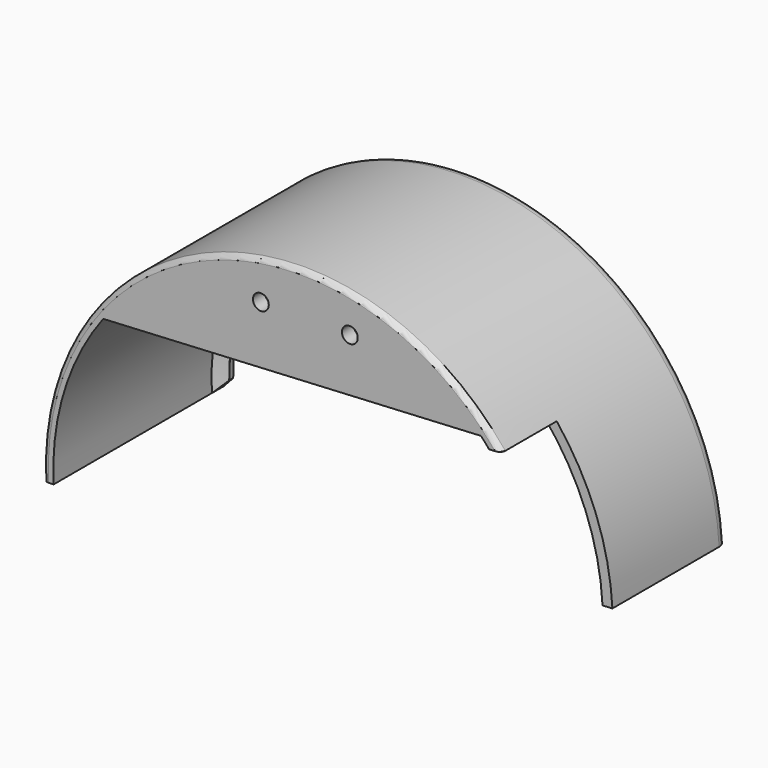
from build123d import *

# Parameters (mm, degrees)
BOX338_W                = 59
BOX338_H                = 20
BOX338_DEPTH            = 32
BOX338_PLACEMENT_ANGLE  = 3
CYLINDER483_R           = 1.6
CYLINDER483_DEPTH       = 9
CYLINDER481_R           = 1.6
CYLINDER481_DEPTH       = 9
BOX337_W                = 128
BOX337_H                = 3
BOX337_DEPTH            = 35
BOX337_PLACEMENT_ANGLE  = 3
CYLINDER489_W           = 52
CYLINDER489_H           = 3
CYLINDER489_ANGLE       = 180
CYLINDER489_ROLL_ANGLE  = 90
CYLINDER489_PITCH_ANGLE = -3
CYLINDER491_W           = 48
CYLINDER491_H           = 2
CYLINDER491_ANGLE       = 180
CYLINDER488_W           = 50
CYLINDER488_H           = 42
CYLINDER488_ANGLE       = 180
CYLINDER490_W           = 52
CYLINDER490_H           = 43
CYLINDER490_ANGLE       = 180
CUT342_PLACEMENT_ANGLE  = 3
FILLET124_R             = 2
FILLET125_R             = 1
CHAMFER049_SIZE         = 1.99
CHAMFER052_SIZE         = 1.99


with BuildPart() as cube409:
    # Box338 → Box338 (new body)
    with BuildSketch(Plane.XY):
        with Locations((29.5, 10)):
            Rectangle(BOX338_W, BOX338_H)
    extrude(amount=BOX338_DEPTH)


with BuildPart() as cube409_1:
    # Box338 placement: moved
    add(cube409.part.moved(Location((473, -33, -34))).rotate(Axis((473, -33, -34), (0, -1, 0)), BOX338_PLACEMENT_ANGLE))


with BuildPart() as cylinder584:
    # Cylinder483 → Cylinder483 (new body)
    with BuildSketch(Plane(origin=(441, -17, 10), x_dir=(1, 0, 0), z_dir=(0, -1, 0))):
        Circle(CYLINDER483_R)
    extrude(amount=CYLINDER483_DEPTH)


with BuildPart() as fusion433:
    # Cylinder481 → Cylinder481 (new body)
    with BuildSketch(Plane(origin=(459, -17, 10), x_dir=(1, 0, 0), z_dir=(0, -1, 0))):
        Circle(CYLINDER481_R)
    extrude(amount=CYLINDER481_DEPTH)

    # Fusion433: union Cylinder584
    add(cylinder584.part)


with BuildPart() as cube408:
    # Box337 → Box337 (new body)
    with BuildSketch(Plane.XY):
        with Locations((64, 1.5)):
            Rectangle(BOX337_W, BOX337_H)
    extrude(amount=BOX337_DEPTH)


with BuildPart() as cube408_1:
    # Box337 placement: moved
    add(cube408.part.moved(Location((382, -9, -40.8))).rotate(Axis((382, -9, -40.8), (0, -1, 0)), BOX337_PLACEMENT_ANGLE))


with BuildPart() as cut343:
    # Cylinder489 → Cylinder489 (revolve)
    with BuildSketch(Plane.XZ):
        with Locations((26, 1.5)):
            Rectangle(CYLINDER489_W, CYLINDER489_H)
    revolve(axis=Axis((0, 0, 0), (0, 0, 1)), revolution_arc=CYLINDER489_ANGLE)


with BuildPart() as cut343_1:
    # Cylinder489 roll: moved
    add(cut343.part.rotate(Axis((0, 0, 0), (1, 0, 0)), CYLINDER489_ROLL_ANGLE))


with BuildPart() as cut343_2:
    # Cylinder489 pitch: moved
    add(cut343_1.part.rotate(Axis((0, 0, 0), (0, 1, 0)), CYLINDER489_PITCH_ANGLE))


with BuildPart() as cut343_3:
    # Cylinder489 placement: moved
    add(cut343_2.part.moved(Location((448.581401, -6, -35.39126))))

    # Cut343: cut Cube408
    add(cube408_1.part, mode=Mode.SUBTRACT)


with BuildPart() as cut343_4:
    # Cut343 placement: moved
    add(cut343_3.part.moved(Location((105.48, -13, 6.5))))


with BuildPart() as cylinder588:
    # Cylinder491 → Cylinder491 (revolve)
    with BuildSketch(Plane(origin=(554, -60, -28), x_dir=(1, 0, 0), z_dir=(0, 0, -1))):
        with Locations((24, 1)):
            Rectangle(CYLINDER491_W, CYLINDER491_H)
    revolve(axis=Axis((554, -60, -28), (0, -1, 0)), revolution_arc=CYLINDER491_ANGLE)


with BuildPart() as fusion438:
    # Cylinder488 → Cylinder488 (revolve)
    with BuildSketch(Plane(origin=(554, -19, -28), x_dir=(1, 0, 0), z_dir=(0, 0, -1))):
        with Locations((25, 21)):
            Rectangle(CYLINDER488_W, CYLINDER488_H)
    revolve(axis=Axis((554, -19, -28), (0, -1, 0)), revolution_arc=CYLINDER488_ANGLE)

    # Fusion438: union Cylinder588
    add(cylinder588.part)


with BuildPart() as fender_front_left:
    # Cylinder490 → Cylinder490 (revolve)
    with BuildSketch(Plane(origin=(554, -19, -28), x_dir=(1, 0, 0), z_dir=(0, 0, -1))):
        with Locations((26, 21.5)):
            Rectangle(CYLINDER490_W, CYLINDER490_H)
    revolve(axis=Axis((554, -19, -28), (0, -1, 0)), revolution_arc=CYLINDER490_ANGLE)

    # Cut342: cut Fusion438
    add(fusion438.part, mode=Mode.SUBTRACT)


with BuildPart() as fender_front_left_1:
    # Cut342 placement: moved
    add(fender_front_left.part.moved(Location((-0.706169, 0, -29.032493))).rotate(Axis((-0.706169, 0, -29.032493), (0, -1, 0)), CUT342_PLACEMENT_ANGLE))

    # Fusion437: union Cut343
    add(cut343_4.part)


with BuildPart() as fender_front_left_2:
    # Fusion437 placement: moved
    add(fender_front_left_1.part.moved(Location((-105, 0, -5.5))))

    # Cut345: cut Fusion433
    add(fusion433.part, mode=Mode.SUBTRACT)

    # Cut347: cut Cube409
    add(cube409_1.part, mode=Mode.SUBTRACT)

    # Fillet124
    fillet124_edges = [fender_front_left_2.edges().sort_by_distance(p)[0] for p in [
        (446.27853, -62, 18.428736),
    ]]
    fillet(fillet124_edges, radius=FILLET124_R)

    # Fillet125
    fillet125_edges = [fender_front_left_2.edges().sort_by_distance(p)[0] for p in [
        (430.549251, -19, 15.116559),
    ]]
    fillet(fillet125_edges, radius=FILLET125_R)

    # Chamfer049
    chamfer049_edges = [fender_front_left_2.edges().sort_by_distance(p)[0] for p in [
        (446.383202, -61, 16.431477),
    ]]
    chamfer(chamfer049_edges, length=CHAMFER049_SIZE)

    # Chamfer052
    chamfer052_edges = [fender_front_left_2.edges().sort_by_distance(p)[0] for p in [
        (401.065782, -61.5, -36.012126),
        (496.934218, -61.5, -30.987874),
    ]]
    chamfer(chamfer052_edges, length=CHAMFER052_SIZE)


with BuildPart() as fender_front_right:
    # Part__Mirroring011: instance of fender-front-left_
    add(fender_front_left_2.part.mirror(Plane(origin=(0, 0, 0), x_dir=(1, 0, 0), z_dir=(0, 1, 0))))


with BuildPart() as fender_front_right_1:
    # Part__Mirroring011 placement: moved
    add(fender_front_right.part.moved(Location((0, 62, 0))))


solid = fender_front_right_1.part
